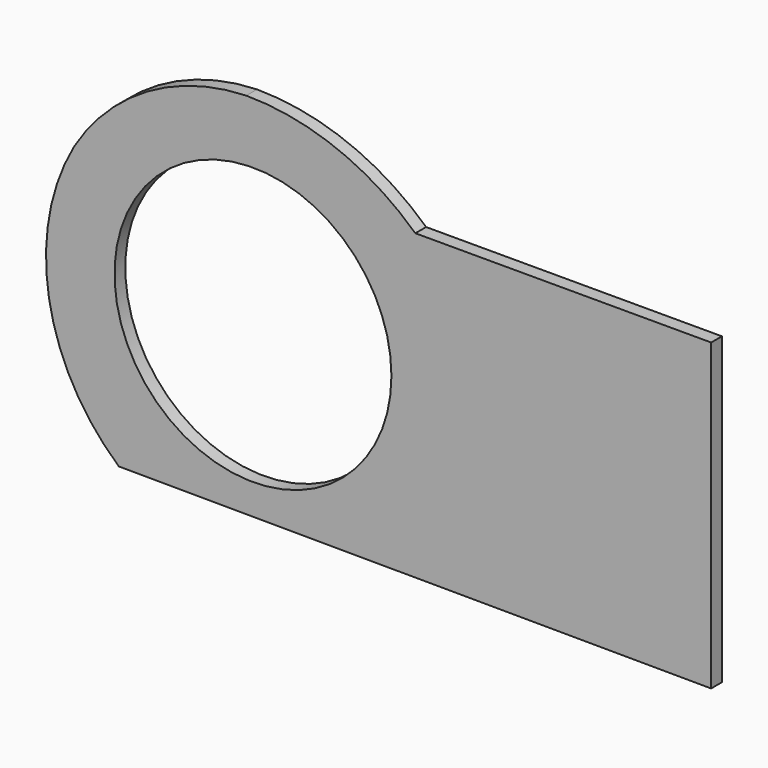
from build123d import *

# Parameters (mm, degrees)
F0_R     = 32.678191
F1_DEPTH = 3.175


with BuildPart() as f1:
    # F0 (on Front) → F1 (new body)
    with BuildSketch(Plane.XZ):
        with BuildLine():
            Line((52.798335, -44.253202), (52.798335, 27.628798))
            Line((52.798335, 27.628798), (-17.014528, 27.628798))
            ThreePointArc((-17.014528, 27.628798), (-35.500919, 39.185209), (-56.920039, 43.249519))
            ThreePointArc((-56.920039, 43.249519), (-80.290416, 36.500021), (-97.592242, 19.400984))
            ThreePointArc((-97.592242, 19.400984), (-103.491899, -13.978718), (-86.993061, -43.589506))
            Line((-86.993061, -43.589506), (52.798335, -44.253202))
        make_face()
        with Locations((-55.342946, -3.86149)):
            Circle(F0_R, mode=Mode.SUBTRACT)
    extrude(amount=F1_DEPTH)


solid = f1.part
